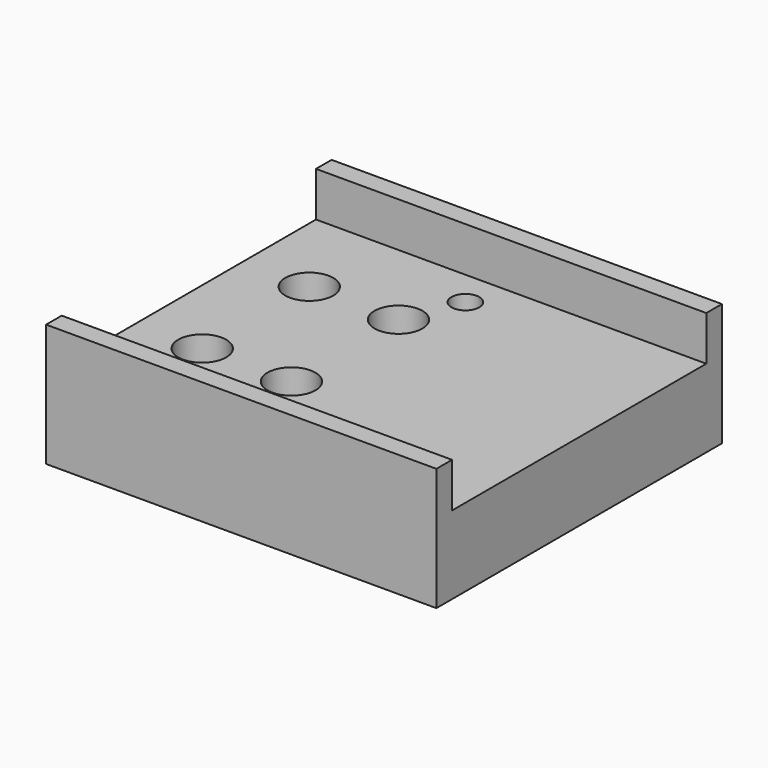
from build123d import *

# Parameters (mm, degrees)
F0_W     = 35
F0_H     = 32
F1_DEPTH = 11
F2_W     = 35
F2_H     = 28.5
F3_DEPTH = 4
F4_R     = 1.25
F5_DEPTH = 25
F6_R     = 2.15
F7_DEPTH = 3


with BuildPart() as f1:
    # F0 (on Top) → F1 (new body)
    with BuildSketch(Plane.XY):
        with Locations((17.5, 16)):
            Rectangle(F0_W, F0_H)
    extrude(amount=F1_DEPTH)

    # F2 (on face) → F3 (cut)
    with BuildSketch(Plane.XY.offset(11)):
        with Locations((17.5, 16)):
            Rectangle(F2_W, F2_H)
    extrude(amount=-F3_DEPTH, mode=Mode.SUBTRACT)

    # F4 (on face) → F5 (cut)
    with BuildSketch(Plane.XY.offset(7)):
        with Locations((6, 22)):
            Circle(F4_R)
        with Locations((6, 10)):
            Circle(F4_R)
        with Locations((14, 22)):
            Circle(F4_R)
        with Locations((14, 10)):
            Circle(F4_R)
        with Locations((16, 27)):
            Circle(F4_R)
        with Locations((16, 5)):
            Circle(F4_R)
    extrude(amount=-F5_DEPTH, mode=Mode.SUBTRACT)

    # F6 (on face) → F7 (cut)
    with BuildSketch(Plane.XY.offset(7)):
        with Locations((6, 22)):
            Circle(F6_R)
        with Locations((14, 22)):
            Circle(F6_R)
        with Locations((14, 10)):
            Circle(F6_R)
        with Locations((6, 10)):
            Circle(F6_R)
    extrude(amount=-F7_DEPTH, mode=Mode.SUBTRACT)


solid = f1.part
